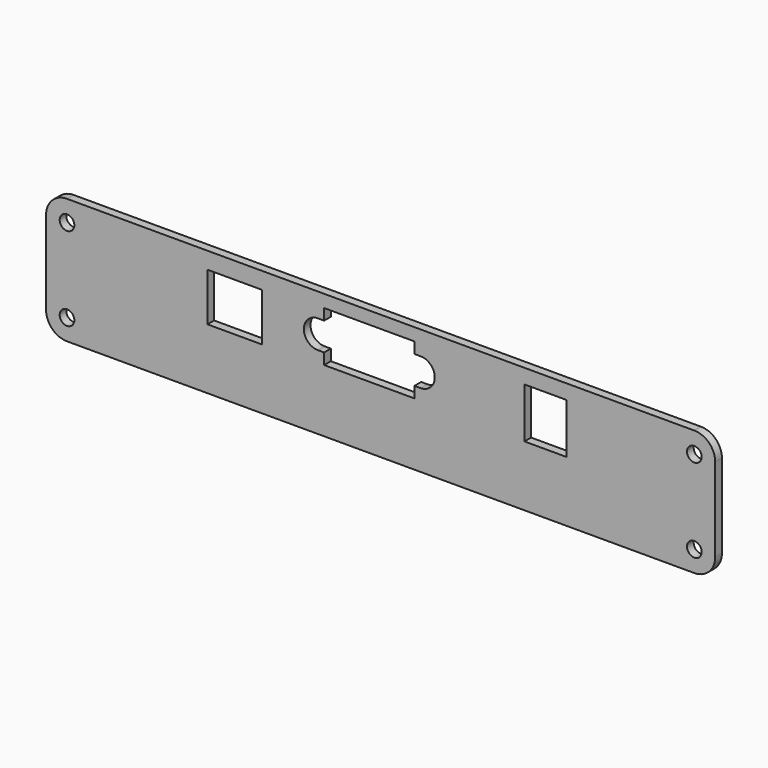
from build123d import *

# Parameters (mm, degrees)
SKETCH017_W          = 160
SKETCH017_H          = 30
PAD014_DEPTH         = 2
FILLET_R             = 5
SKETCH018_R          = 1.75
SKETCH018_W          = 13
SKETCH018_H          = 11.5
SKETCH018_W_2        = 10
SKETCH018_H_2        = 12
POCKET009_DEPTH      = 2.001
POCKET009_DEPTH_BACK = 0.001


with BuildPart() as part:
    # Sketch017 → Pad014 (new body)
    with BuildSketch(Plane.XZ):
        with Locations((0, 0.5)):
            Rectangle(SKETCH017_W, SKETCH017_H)
    extrude(amount=PAD014_DEPTH)

    # Fillet
    fillet_edges = [part.edges().sort_by_distance(p)[0] for p in [
        (80, -1, 15.5),
        (80, -1, -14.5),
        (-80, -1, 15.5),
        (-80, -1, -14.5),
    ]]
    fillet(fillet_edges, radius=FILLET_R)

    # Sketch018 (on Face5 of Pad014) → Pocket009 (cut, two sides)
    with BuildSketch(Plane(origin=(0, 0, 0), x_dir=(1, 0, 0), z_dir=(0, 1, 0))) as pocket009_sk:
        with Locations((-75, 9.5)):
            Circle(SKETCH018_R)
        with Locations((-75, -10.5)):
            Circle(SKETCH018_R)
        with Locations((75, 9.5)):
            Circle(SKETCH018_R)
        with Locations((75, -10.5)):
            Circle(SKETCH018_R)
        with BuildLine():
            Line((8.085, -12.5), (-13.515, -12.5))
            Line((-13.515, -12.5), (-13.515, -9.85))
            Line((-13.515, -9.85), (-15.015, -9.85))
            ThreePointArc((-15.015, -3.15), (-18.365, -6.5), (-15.015, -9.85))
            Line((-13.515, -3.15), (-15.015, -3.15))
            Line((-13.515, -0.5), (-13.515, -3.15))
            Line((8.085, -0.5), (-13.515, -0.5))
            Line((8.085, -3.15), (8.085, -0.5))
            Line((9.585, -3.15), (8.085, -3.15))
            ThreePointArc((9.585, -9.85), (12.935, -6.5), (9.585, -3.15))
            Line((8.085, -9.85), (9.585, -9.85))
            Line((8.085, -12.5), (8.085, -9.85))
        make_face()
        with Locations((-34.915, -5.75)):
            Rectangle(SKETCH018_W, SKETCH018_H)
        with Locations((39.385, -6)):
            Rectangle(SKETCH018_W_2, SKETCH018_H_2)
    extrude(amount=-POCKET009_DEPTH, mode=Mode.SUBTRACT)
    extrude(pocket009_sk.sketch, amount=POCKET009_DEPTH_BACK, mode=Mode.SUBTRACT)


solid = part.part
